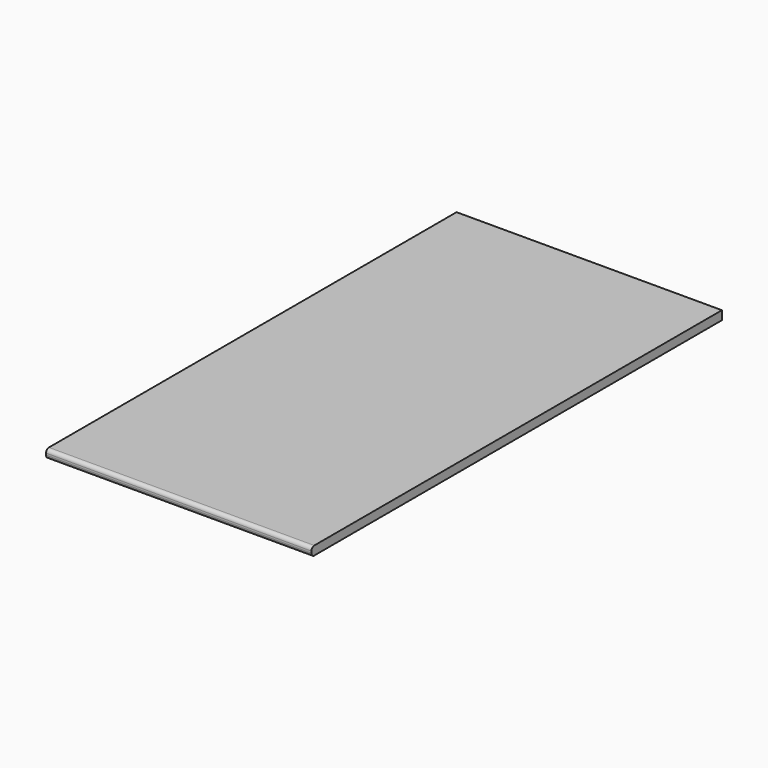
from build123d import *

# Parameters (mm, degrees)
F0_W     = 38.1
F0_H     = 1.27
F1_DEPTH = 73.66
F2_R     = 0.508


with BuildPart() as f1:
    # F0 (on Front) → F1 (new body)
    with BuildSketch(Plane.XZ):
        Rectangle(F0_W, F0_H)
    extrude(amount=-F1_DEPTH)

    # F2
    f2_edges = [f1.edges().sort_by_distance(p)[0] for p in [
        (0, 0, 0.635),
        (0, 0, -0.635),
    ]]
    fillet(f2_edges, radius=F2_R)


solid = f1.part
